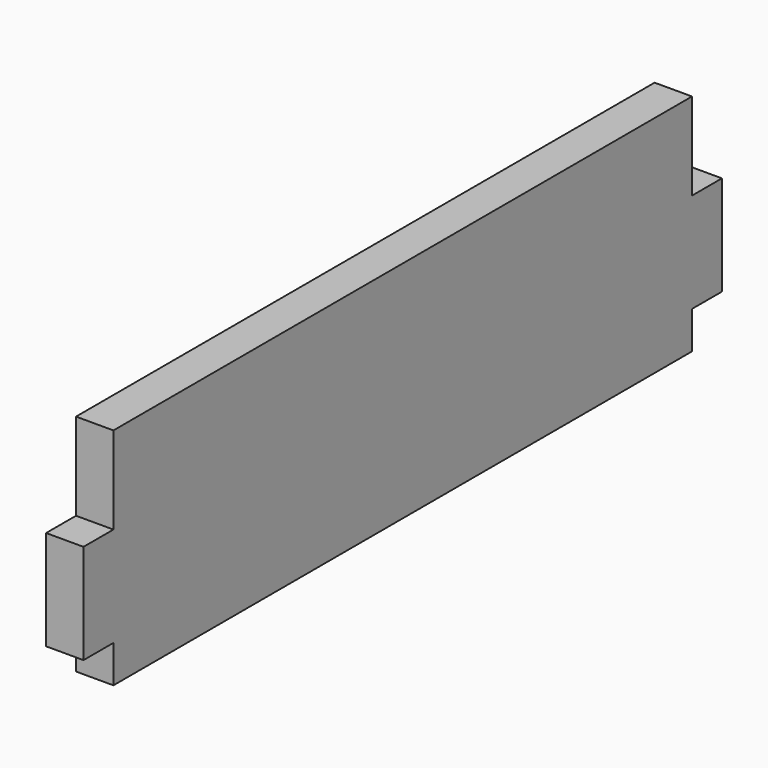
from build123d import *

# Parameters (mm, degrees)
F1_DEPTH = 3


with BuildPart() as f1:
    # F0 (on Right) → F1 (new body)
    with BuildSketch(Plane.YZ):
        Polygon((-32, 4), (-32, 0), (-32, -4), (-29, -4), (-29, -7), (0, -7), (29, -7), (29, -4), (32, -4), (32, 0), (32, 4), (29, 4), (29, 11), (0, 11), (-29, 11), (-29, 4), align=None)
    extrude(amount=F1_DEPTH)


solid = f1.part
